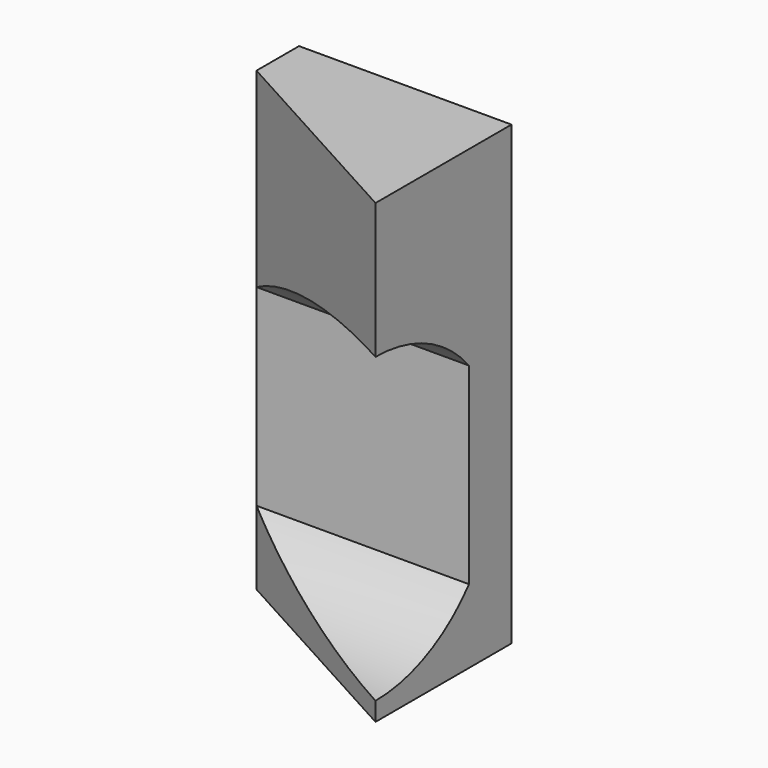
from build123d import *

# Parameters (mm, degrees)
CYLINDER_W      = 14.25
CYLINDER_H      = 20
CYLINDER_ANGLE  = 180
BOX001_W        = 20
BOX001_H        = 16
BOX001_DEPTH    = 43
BOX002_W        = 20
BOX002_H        = 5
BOX002_DEPTH    = 43
POCKET008_DEPTH = 43.001


with BuildPart() as cylinder:
    # Cylinder → Cylinder (revolve)
    with BuildSketch(Plane(origin=(0, -16, 5), x_dir=(0, 0, 1), z_dir=(0, -1, 0))):
        with Locations((7.125, 10)):
            Rectangle(CYLINDER_W, CYLINDER_H)
    revolve(axis=Axis((0, -16, 5), (-1, 0, 0)), revolution_arc=CYLINDER_ANGLE)


with BuildPart() as cut001:
    # Box001 → Box001 (new body)
    with BuildSketch(Plane(origin=(-20, -16, -11), x_dir=(1, 0, 0), z_dir=(0, 0, 1))):
        with Locations((10, 8)):
            Rectangle(BOX001_W, BOX001_H)
    extrude(amount=BOX001_DEPTH)

    # Cut001: cut Cylinder
    add(cylinder.part, mode=Mode.SUBTRACT)


with BuildPart() as obj1:
    # Box002 → Box002 (new body)
    with BuildSketch(Plane(origin=(-20, -5, -11), x_dir=(1, 0, 0), z_dir=(0, 0, 1))):
        with Locations((10, 2.5)):
            Rectangle(BOX002_W, BOX002_H)
    extrude(amount=BOX002_DEPTH)

    # Fusion004: union Cut001
    add(cut001.part)

    # Sketch018 (on Face10 of BaseFeature002) → Pocket008 (cut, through all)
    with BuildSketch(Plane(origin=(0, 0, -11), x_dir=(1, 0, 0), z_dir=(0, 0, -1))):
        Polygon((0, 16), (-20, 16), (-20, 5), align=None)
    extrude(amount=-POCKET008_DEPTH, mode=Mode.SUBTRACT)


solid = obj1.part
